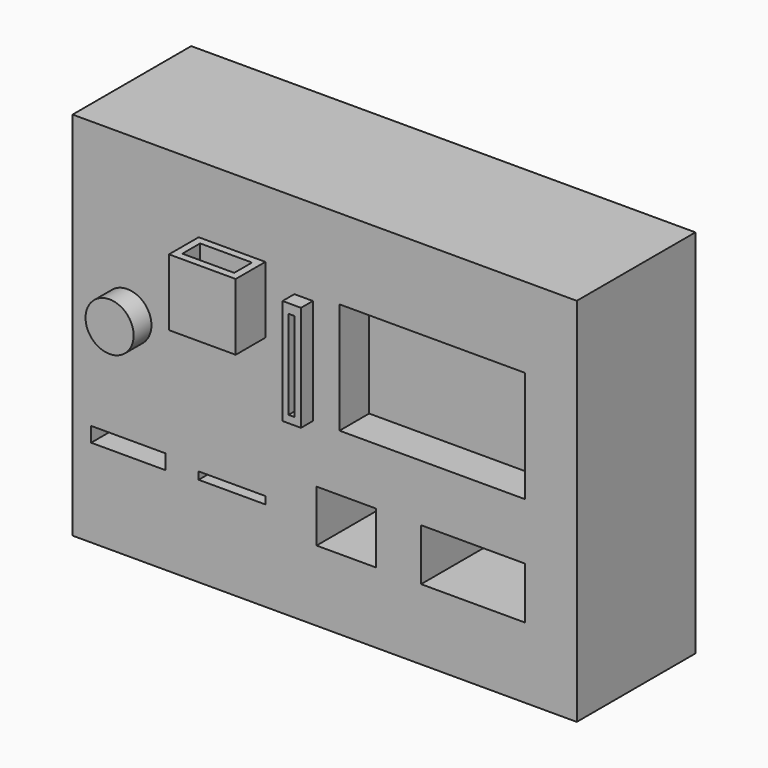
from build123d import *

# Parameters (mm, degrees)
F0_W      = 15
F0_H      = 50
F1_DEPTH  = 20
F0_W_2    = 13
F2_DEPTH  = 20
F0_W_3    = 40
F3_DEPTH  = 20
F4_W      = 10
F4_H      = 2
F5_DEPTH  = 25
F6_W      = 9
F6_H      = 1
F7_DEPTH  = 25
F8_W      = 14
F8_H      = 7
F8_W_2    = 8
F9_DEPTH  = 25
F11_W     = 25
F11_H     = 15
F12_DEPTH = 25
F13_W     = 64.1647251323
F13_H     = 12.2270062566
F14_DEPTH = 1
F16_W     = 9
F16_H     = 9
F17_DEPTH = 5
F18_T     = -1
F19_R     = 3.2447716186
F20_DEPTH = 3
F21_W     = 2.4915598333
F21_H     = 14.2517206259
F22_DEPTH = 2
F23_W     = 0.8
F23_H     = 12
F24_DEPTH = 1


with BuildPart() as f1:
    # F0 (on Front) → F1 (new body)
    with BuildSketch(Plane.XZ):
        with Locations((-44.4124493003, -10.1152159274)):
            Rectangle(F0_W, F0_H)
    extrude(amount=F1_DEPTH)

    # F4 (on Front) → F5 (cut)
    with BuildSketch(Plane.XZ):
        with Locations((-44.4124493003, -22.2645440847)):
            Rectangle(F4_W, F4_H)
    extrude(amount=F5_DEPTH, mode=Mode.SUBTRACT)


with BuildPart() as f2:
    # F0 (on Front) → F2 (new body)
    with BuildSketch(Plane.XZ):
        with Locations((-30.4124493003, -10.1152159274)):
            Rectangle(F0_W_2, F0_H)
    extrude(amount=F2_DEPTH)

    # F6 (on Front) → F7 (cut)
    with BuildSketch(Plane.XZ):
        with Locations((-30.4124493003, -22.451785475)):
            Rectangle(F6_W, F6_H)
    extrude(amount=F7_DEPTH, mode=Mode.SUBTRACT)


with BuildPart() as f3:
    # F0 (on Front) → F3 (new body)
    with BuildSketch(Plane.XZ):
        with Locations((-3.9124493003, -10.1152159274)):
            Rectangle(F0_W_3, F0_H)
    extrude(amount=F3_DEPTH)

    # F8 (on Front) → F9 (cut)
    with BuildSketch(Plane.XZ):
        with Locations((2.0875506997, -22.0866069347)):
            Rectangle(F8_W, F8_H)
        with Locations((-15.0076995641, -22.0866069347)):
            Rectangle(F8_W_2, F8_H)
    extrude(amount=F9_DEPTH, mode=Mode.SUBTRACT)

    # F11 (on offset) → F12 (cut)
    with BuildSketch(Plane.XZ.offset(15)):
        with Locations((-3.4124493003, -3.4400860965)):
            Rectangle(F11_W, F11_H)
    extrude(amount=F12_DEPTH, mode=Mode.SUBTRACT)


with BuildPart() as f14:
    # F13 (on Front) → F14 (new body)
    with BuildSketch(Plane.XZ):
        with Locations((-18.5078284703, -22.568764165)):
            Rectangle(F13_W, F13_H)
    extrude(amount=F14_DEPTH)


with BuildPart() as f2_1:
    add(f2.part)

    # F15: union F3, F1, F14
    add(f3.part)
    add(f1.part)
    add(f14.part)

    # F21 (on face) → F22 (join)
    with BuildSketch(Plane.XZ.offset(20)):
        with Locations((-20.7528267056, -3.8364862558)):
            Rectangle(F21_W, F21_H)
    extrude(amount=F22_DEPTH)

    # F23 (on face) → F24 (cut)
    with BuildSketch(Plane.XZ.offset(22)):
        with Locations((-20.7843538374, -3.9623465687)):
            Rectangle(F23_W, F23_H)
    extrude(amount=-F24_DEPTH, mode=Mode.SUBTRACT)


with BuildPart() as f17:
    # F16 (on face) → F17 (new body)
    with BuildSketch(Plane.XZ.offset(20)):
        with Locations((-30.4124493003, 1.348200215)):
            Rectangle(F16_W, F16_H)
    extrude(amount=F17_DEPTH)

    # F18
    f18_openings = [f17.faces().sort_by_distance(p)[0] for p in [
        (-30.412449, -22.5, 5.8482),
    ]]
    offset(amount=F18_T, openings=f18_openings)


with BuildPart() as f20:
    # F19 (on face) → F20 (new body)
    with BuildSketch(Plane.XZ.offset(20)):
        with Locations((-44.5223040879, -6.6768634133)):
            Circle(F19_R)
    extrude(amount=F20_DEPTH)


solid = Compound([f2_1.part, f17.part, f20.part])
